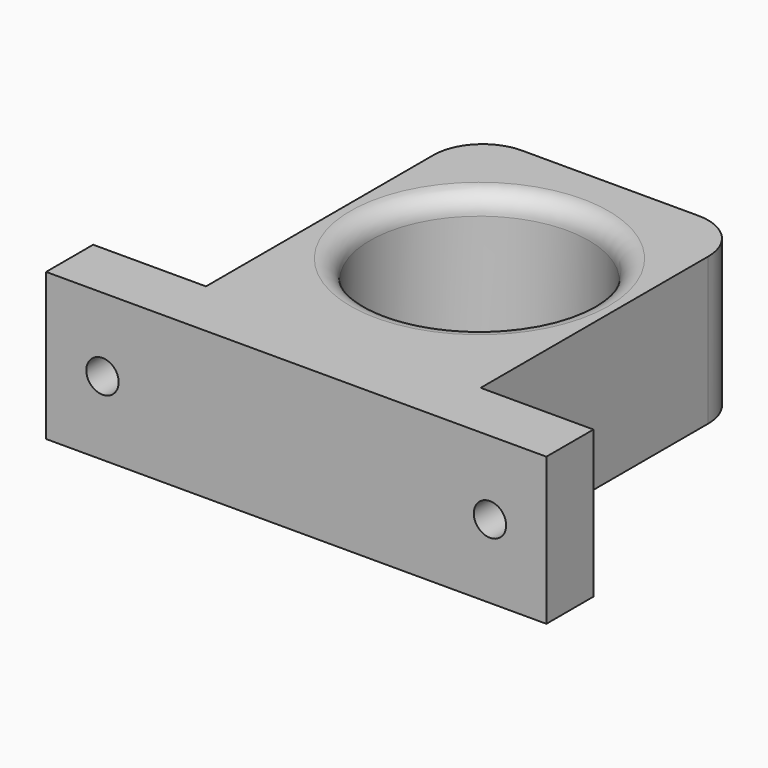
from build123d import *

# Parameters (mm, degrees)
F0_W     = 28
F0_H     = 34
F0_R     = 11.15
F1_DEPTH = 15
F0_R_2   = 6
F2_DEPTH = 2
F3_R     = 1.65
F4_DEPTH = 6
F3_R_2   = 2.8
F5_DEPTH = 2.5
F7_R     = 5
F8_R     = 2


with BuildPart() as f1:
    # F0 (on Top) → F1 (new body)
    with BuildSketch(Plane.XY):
        Rectangle(F0_W, F0_H)
        with Locations((0, 0.35)):
            Circle(F0_R, mode=Mode.SUBTRACT)
        Polygon((14, -17), (-14, -17), (-25.5, -17), (-25.5, -23), (25.5, -23), (25.5, -17), align=None)
    extrude(amount=F1_DEPTH)

    # F0 (on Top) → F2 (join)
    with BuildSketch(Plane.XY):
        with Locations((0, 0.35)):
            Circle(F0_R)
        with Locations((0, 0.35)):
            Circle(F0_R_2, mode=Mode.SUBTRACT)
    extrude(amount=F2_DEPTH)

    # F3 (on face) → F4 (cut, through all)
    with BuildSketch(Plane(origin=(0, -17, 0), x_dir=(-1, 0, 0), z_dir=(0, 1, 0))):
        with Locations((19.75, 7.5)):
            Circle(F3_R)
    extrude(amount=-F4_DEPTH, mode=Mode.SUBTRACT)

    # F3 (on face) → F5 (cut)
    with BuildSketch(Plane(origin=(0, -17, 0), x_dir=(-1, 0, 0), z_dir=(0, 1, 0))):
        with Locations((19.75, 7.5)):
            Circle(F3_R_2)
        with Locations((19.75, 7.5)):
            Circle(F3_R, mode=Mode.SUBTRACT)
    extrude(amount=-F5_DEPTH, mode=Mode.SUBTRACT)

    # F6: F1 across plane


with BuildPart() as f1_1:
    add(f1.part)
    add(f1.part.mirror(Plane.YZ), mode=Mode.INTERSECT)

    # F7
    f7_edges = [f1_1.edges().sort_by_distance(p)[0] for p in [
        (-14, 17, 7.5),
        (14, 17, 7.5),
    ]]
    fillet(f7_edges, radius=F7_R)

    # F8
    f8_edges = [f1_1.edges().sort_by_distance(p)[0] for p in [
        (-11.15, 0.35, 15),
    ]]
    fillet(f8_edges, radius=F8_R)


solid = f1_1.part
